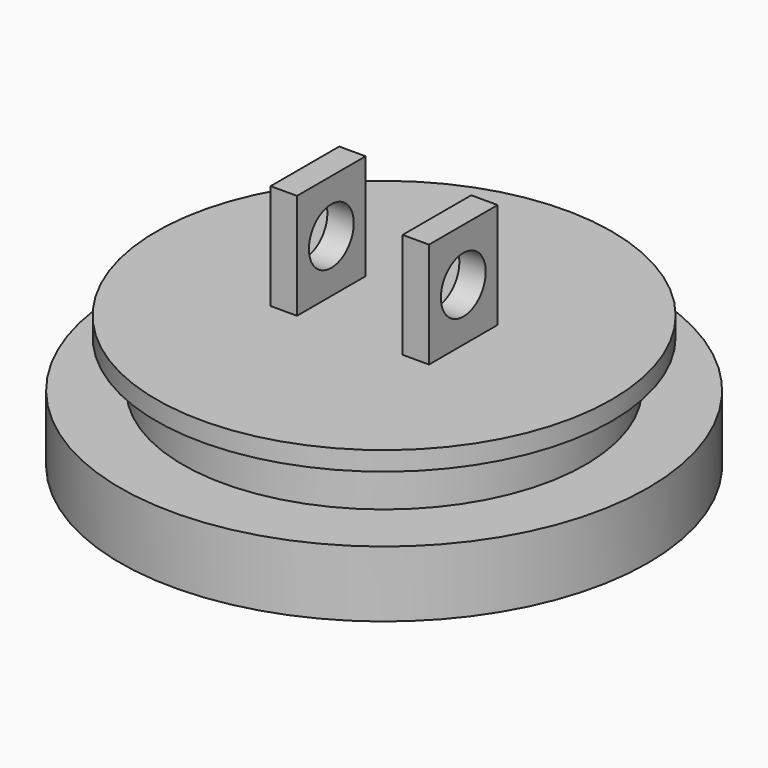
from build123d import *

# Parameters (mm, degrees)
F0_R      = 20
F1_DEPTH  = 5
F2_R      = 17.25
F3_DEPTH  = 10
F4_W      = 2
F4_H      = 3.56
F7_W      = 2
F7_H      = 6.5
F8_DEPTH  = 8
F9_R      = 2.125
F10_DEPTH = 26.001


with BuildPart() as f1:
    # F0 (on Top) → F1 (new body)
    with BuildSketch(Plane.XY):
        Circle(F0_R)
    extrude(amount=F1_DEPTH)

    # F2 (on Top) → F3 (join)
    with BuildSketch(Plane.XY):
        Circle(F2_R)
    extrude(amount=F3_DEPTH)

    # F4 (on Right) → F6 (revolve, cut)
    with BuildSketch(Plane.YZ):
        with Locations((16.25, 6.78)):
            Rectangle(F4_W, F4_H)
    revolve(axis=Axis((0, 0, 6.819869), (0, 0, 1)), mode=Mode.SUBTRACT)

    # F7 (on face) → F8 (join)
    with BuildSketch(Plane.XY.offset(10)):
        with Locations((5, 0)):
            Rectangle(F7_W, F7_H)
        with Locations((-5, 0)):
            Rectangle(F7_W, F7_H)
    extrude(amount=F8_DEPTH)

    # F9 (on face) → F10 (cut, through all)
    with BuildSketch(Plane(origin=(-6, 0, 0), x_dir=(0, -1, 0), z_dir=(-1, 0, 0))):
        with Locations((0, 14)):
            Circle(F9_R)
    extrude(amount=-F10_DEPTH, mode=Mode.SUBTRACT)


solid = f1.part
